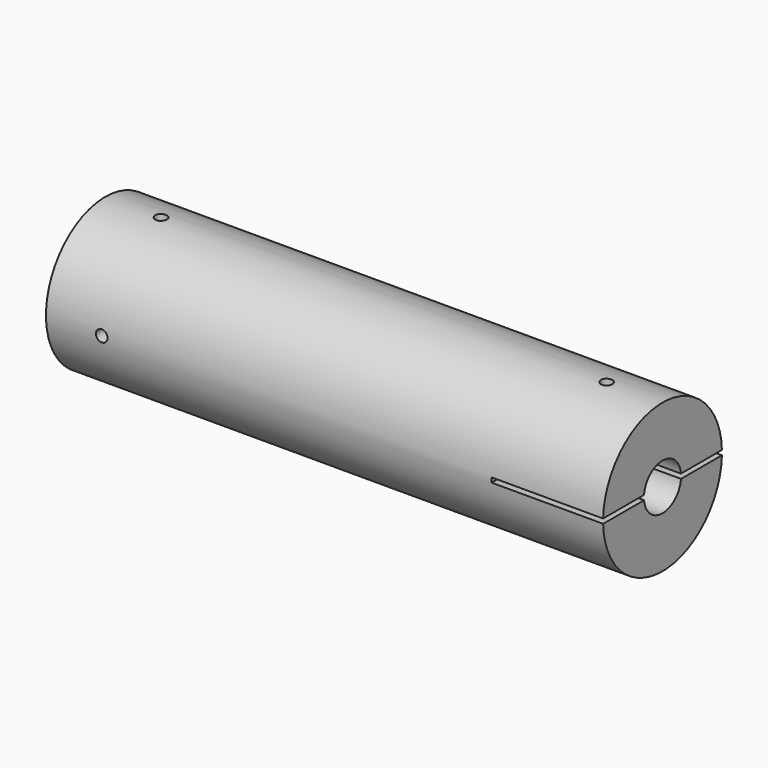
from build123d import *

# Parameters (mm, degrees)
F0_R      = 5.08
F1_DEPTH  = 19.05
F3_D      = 3.175
F3_DEPTH  = 7.62
F3_TIP    = 0.9538662327
F4_W      = 2.1017943509
F4_H      = 1.7811305588
F5_DEPTH  = 8.89
F7_DEPTH  = 7.62
F9_R      = 0.396875
F10_DEPTH = 17.781
F12_R     = 0.396875
F13_DEPTH = 25.4


with BuildPart() as f1:
    # F0 (on Right) → F1 (new body, symmetric)
    with BuildSketch(Plane.YZ):
        Circle(F0_R)
    extrude(amount=F1_DEPTH, both=True)

    # F3
    with Locations(Plane.YZ.offset(19.05)):
        with Locations((0, 0)):
            Hole(F3_D / 2, depth=F3_DEPTH)
            with Locations((0, 0, -(F3_DEPTH + F3_TIP / 2))):  # 118° drill point
                Cone(0, F3_D / 2, F3_TIP, mode=Mode.SUBTRACT)

    # F4 (on face) → F5 (cut)
    with BuildSketch(Plane(origin=(-19.05, 0, 0), x_dir=(0, -1, 0), z_dir=(-1, 0, 0))):
        Rectangle(F4_W, F4_H)
    extrude(amount=-F5_DEPTH, mode=Mode.SUBTRACT)

    # F6 (on face) → F7 (cut)
    with BuildSketch(Plane.YZ.offset(19.05)):
        with BuildLine():
            ThreePointArc((5.08, 0), (5.0793796935, 0.0793846935), (5.0775189254, 0.15875))
            Line((5.0775189254, 0.15875), (1.5795425564, 0.15875))
            ThreePointArc((1.5795425564, 0.15875), (1.5855093911, 0.0794746554), (1.5875, 0))
            ThreePointArc((1.5875, 0), (1.5855093911, -0.0794746554), (1.5795425564, -0.15875))
            Line((1.5795425564, -0.15875), (5.0775189254, -0.15875))
            ThreePointArc((5.0775189254, -0.15875), (5.0793796935, -0.0793846935), (5.08, 0))
        make_face()
        with BuildLine():
            Line((-1.5795425564, 0.15875), (-5.0775189254, 0.15875))
            ThreePointArc((-5.0775189254, 0.15875), (-5.08, 0), (-5.0775189254, -0.15875))
            Line((-5.0775189254, -0.15875), (-1.5795425564, -0.15875))
            ThreePointArc((-1.5795425564, -0.15875), (-1.5875, 0), (-1.5795425564, 0.15875))
        make_face()
    extrude(amount=-F7_DEPTH, mode=Mode.SUBTRACT)

    # F9 (on offset) → F10 (cut, through all)
    with BuildSketch(Plane.XY.offset(12.7)):
        with Locations((-15.24, 0)):
            Circle(F9_R)
        with Locations((15.24, 0)):
            Circle(F9_R)
    extrude(amount=-F10_DEPTH, mode=Mode.SUBTRACT)

    # F12 (on offset) → F13 (cut)
    with BuildSketch(Plane.XZ.offset(12.7)):
        with Locations((-15.24, 0)):
            Circle(F12_R)
    extrude(amount=-F13_DEPTH, mode=Mode.SUBTRACT)


solid = f1.part
